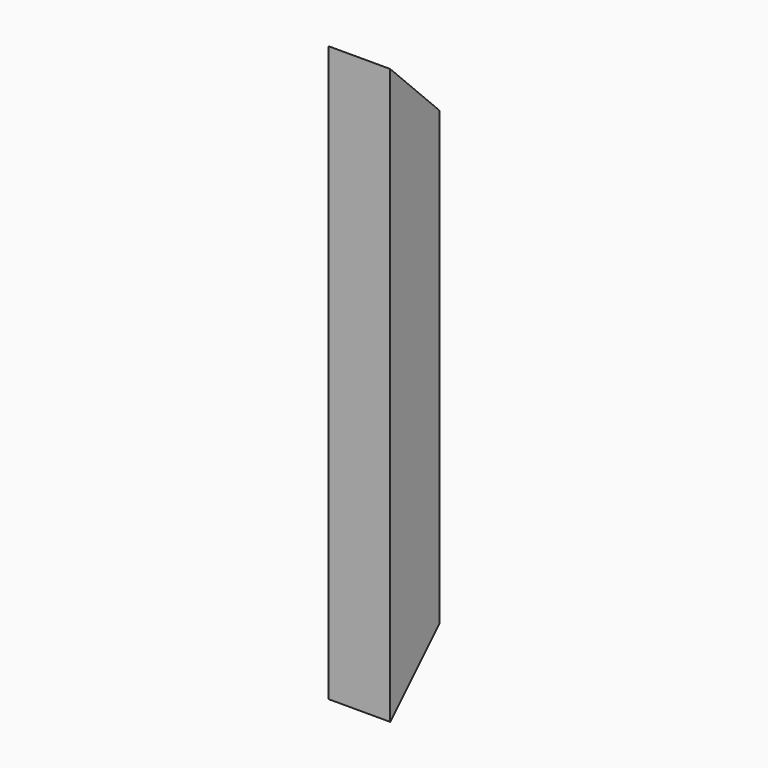
from build123d import *

# Parameters (mm, degrees)
F0_W     = 31.75
F0_H     = 31.75
F1_DEPTH = 147.32
F3_DEPTH = 31.75


with BuildPart() as f1:
    # F0 (on Top) → F1 (new body, symmetric)
    with BuildSketch(Plane.XY):
        Rectangle(F0_W, F0_H)
    extrude(amount=F1_DEPTH, both=True)

    # F2 (on face) → F3 (cut, through all)
    with BuildSketch(Plane.YZ.offset(15.875)):
        Polygon((15.875, -115.57), (-15.875, -147.32), (15.875, -147.32), align=None)
        Polygon((15.875, 147.32), (-15.875, 147.32), (15.875, 115.57), align=None)
    extrude(amount=-F3_DEPTH, mode=Mode.SUBTRACT)


solid = f1.part
